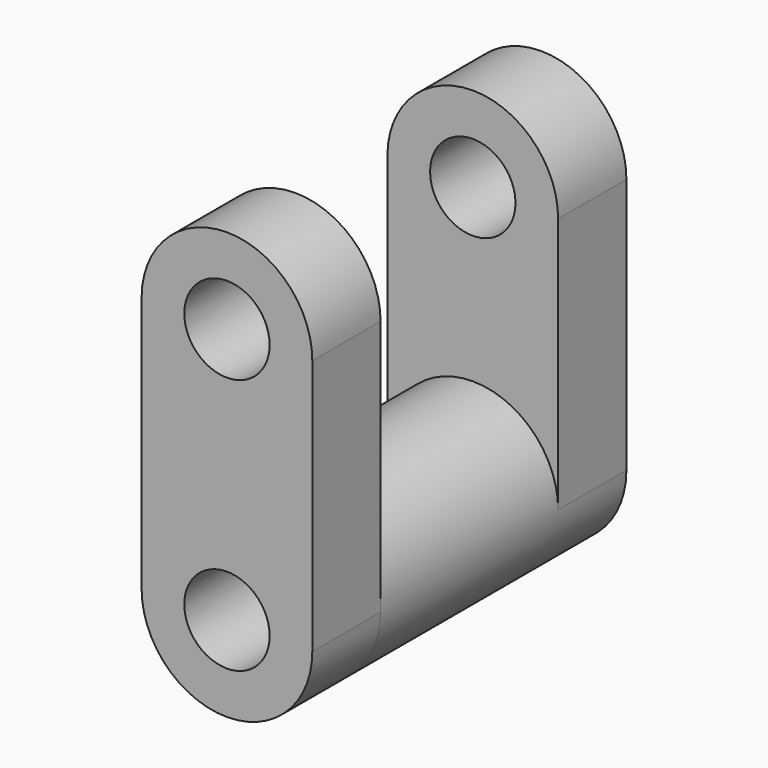
from build123d import *

# Parameters (mm, degrees)
F0_R     = 12.7
F1_DEPTH = 16.51
F2_R     = 6.35
F3_DEPTH = 12.7
F4_R     = 6.35
F5_DEPTH = 12.7


with BuildPart() as f1:
    # F0 (on Front) → F1 (new body, symmetric)
    with BuildSketch(Plane.XZ):
        Circle(F0_R)
    extrude(amount=F1_DEPTH, both=True)

    # F2 (on face) → F3 (join)
    with BuildSketch(Plane.XZ.offset(16.51)):
        with BuildLine():
            Line((12.7, -1e-06), (12.699999, 38.099999))
            ThreePointArc((12.699999, 38.099999), (0, 50.8), (-12.700001, 38.1))
            Line((-12.700001, 38.1), (-12.7, 0))
            ThreePointArc((-12.7, 0), (0, -12.7), (12.7, -1e-06))
        make_face()
        Circle(F2_R, mode=Mode.SUBTRACT)
        with Locations((-1e-06, 38.1)):
            Circle(F2_R, mode=Mode.SUBTRACT)
    extrude(amount=F3_DEPTH)

    # F4 (on face) → F5 (join)
    with BuildSketch(Plane(origin=(0, 16.51, 0), x_dir=(-1, 0, 0), z_dir=(0, 1, 0))):
        with BuildLine():
            Line((12.7, -1e-06), (12.699999, 38.099999))
            ThreePointArc((12.699999, 38.099999), (0, 50.8), (-12.700001, 38.1))
            Line((-12.700001, 38.1), (-12.7, 0))
            ThreePointArc((-12.7, 0), (0, -12.7), (12.7, -1e-06))
        make_face()
        Circle(F4_R, mode=Mode.SUBTRACT)
        with Locations((-1e-06, 38.1)):
            Circle(F4_R, mode=Mode.SUBTRACT)
    extrude(amount=F5_DEPTH)


solid = f1.part
